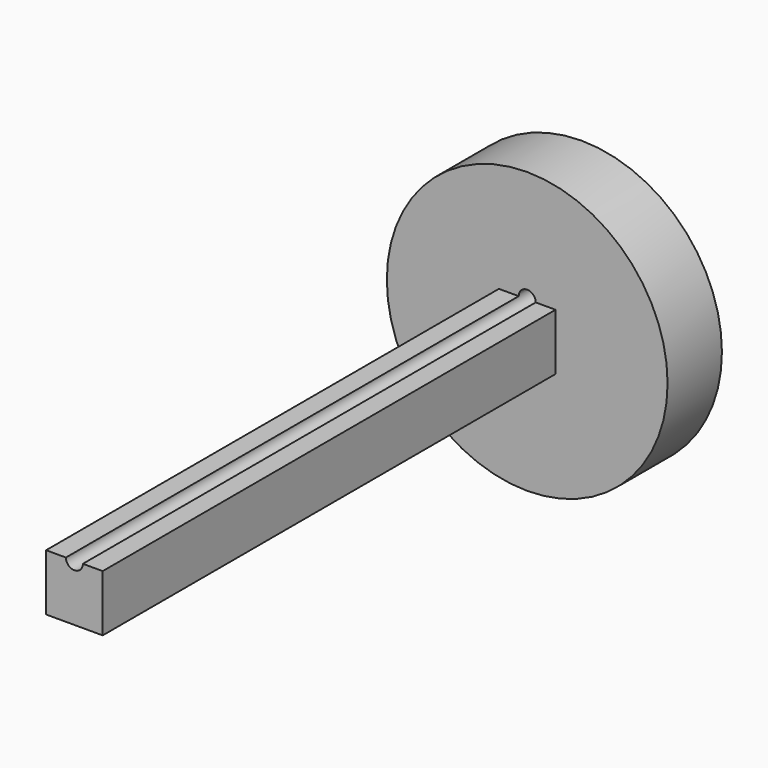
from build123d import *

# Parameters (mm, degrees)
F0_R     = 12.4
F1_DEPTH = 6
F2_W     = 5
F2_H     = 5
F3_DEPTH = 50
F4_R     = 0.75
F5_DEPTH = 60


with BuildPart() as f1:
    # F0 (on Front) → F1 (new body)
    with BuildSketch(Plane.XZ):
        Circle(F0_R)
    extrude(amount=F1_DEPTH)

    # F2 (on face) → F3 (join)
    with BuildSketch(Plane.XZ.offset(6)):
        Rectangle(F2_W, F2_H)
    extrude(amount=F3_DEPTH)

    # F4 (on face) → F5 (cut)
    with BuildSketch(Plane(origin=(0, 0, 0), x_dir=(-1, 0, 0), z_dir=(0, 1, 0))):
        with Locations((0, 2.5)):
            Circle(F4_R)
    extrude(amount=-F5_DEPTH, mode=Mode.SUBTRACT)


solid = f1.part
